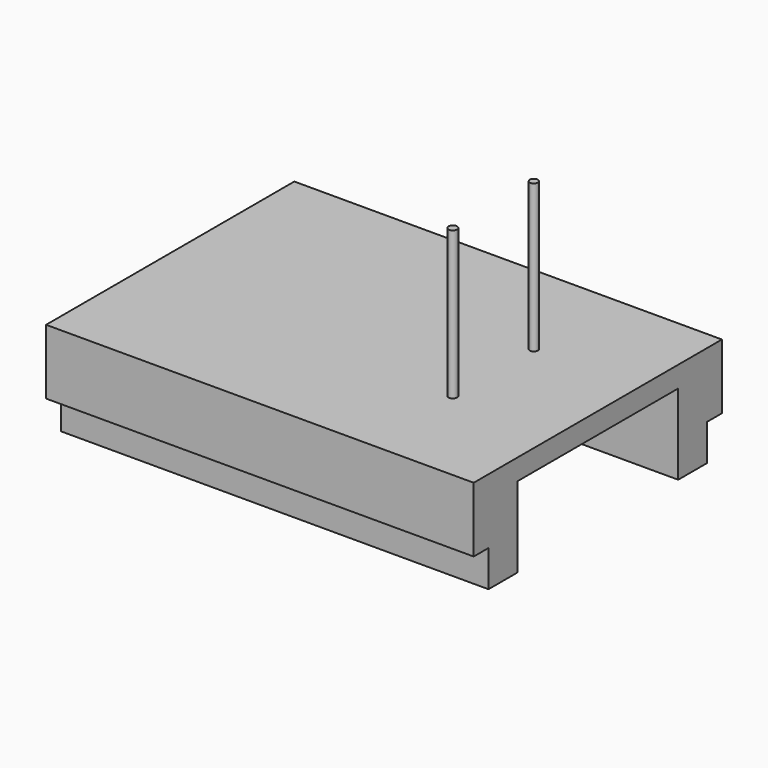
from build123d import *

# Parameters (mm, degrees)
F0_W     = 1351.28
F0_H     = 980.44
F1_DEPTH = 320.04
F2_R     = 12.7
F2_R_2   = 13.639748
F3_DEPTH = 467.36
F5_DEPTH = 1351.28
F6_W     = 58.42
F6_H     = 114.732094
F7_DEPTH = 1356.36


with BuildPart() as f1:
    # F0 (on Top) → F1 (new body)
    with BuildSketch(Plane.XY):
        with Locations((-251.378548, 490.22)):
            Rectangle(F0_W, F0_H)
    extrude(amount=F1_DEPTH)

    # F2 (on face) → F3 (join)
    with BuildSketch(Plane.XY.offset(320.04)):
        with Locations((94.061452, 650.24)):
            Circle(F2_R)
        with Locations((94.061452, 330.2)):
            Circle(F2_R_2)
    extrude(amount=F3_DEPTH)

    # F4 (on face) → F5 (cut)
    with BuildSketch(Plane.YZ.offset(424.261452)):
        Polygon((807.72, 254), (490.22, 254), (172.72, 254), (172.72, 0), (490.22, 0), (807.72, 0), align=None)
    extrude(amount=-F5_DEPTH, mode=Mode.SUBTRACT)

    # F6 (on face) → F7 (cut)
    with BuildSketch(Plane.YZ.offset(424.261452)):
        with Locations((29.21, 57.366047)):
            Rectangle(F6_W, F6_H)
        with Locations((951.23, 57.366047)):
            Rectangle(F6_W, F6_H)
    extrude(amount=-F7_DEPTH, mode=Mode.SUBTRACT)


solid = f1.part
